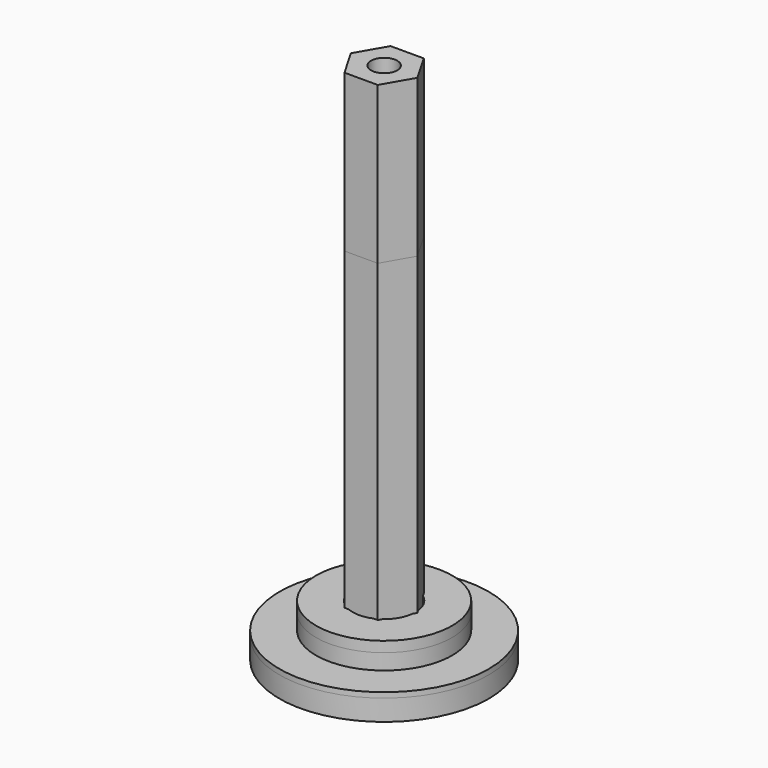
from build123d import *

# Parameters (mm, degrees)
F1_DEPTH  = 50
F2_D      = 2.5
F7_DEPTH  = 35
F8_D      = 3.3
F11_R     = 10
F11_R_2   = 2.75
F12_DEPTH = 2.5
F13_DEPTH = 2


with BuildPart() as f1:
    # F0 (on Top) → F1 (new body)
    with BuildSketch(Plane.XY):
        Polygon((-1.5877132403, -2.75), (1.5877132403, -2.75), (3.1754264805, 0), (1.5877132403, 2.75), (-1.5877132403, 2.75), (-3.1754264805, 0), align=None)
    extrude(amount=F1_DEPTH)

    # F2 (through all)
    with Locations(Plane(origin=(0, 0, 0), x_dir=(1, 0, 0), z_dir=(0, 0, -1))):
        with Locations((0, 0)):
            Hole(F2_D / 2)


with BuildPart() as f4:
    # F3 (on Front) → F4 (revolve)
    with BuildSketch(Plane.XZ):
        Polygon((-3, 5), (-6.5, 5), (-6.5, 1.1), (-7.5, 1.1), (-7.5, 0), (-3, 0), align=None)
    revolve(axis=Axis((0, 0, 3.7545025419), (0, 0, 1)))


with BuildPart() as f6:
    # F5 (on Front) → F6 (revolve)
    with BuildSketch(Plane.XZ):
        Polygon((-7.5, 0), (-2.5, 0), (-2.5, 4), (-6.5, 4), (-6.5, 1), (-7.5, 1), align=None)
    revolve(axis=Axis((0, 0, 3.5518463739), (0, 0, 1)))


with BuildPart() as f7:
    # F0 (on Top) → F7 (new body)
    with BuildSketch(Plane.XY):
        Polygon((-1.5877132403, -2.75), (1.5877132403, -2.75), (3.1754264805, 0), (1.5877132403, 2.75), (-1.5877132403, 2.75), (-3.1754264805, 0), align=None)
    extrude(amount=F7_DEPTH)

    # F8 (through all)
    with Locations(Plane(origin=(0, 0, 0), x_dir=(1, 0, 0), z_dir=(0, 0, -1))):
        with Locations((0, 0)):
            Hole(F8_D / 2)


with BuildPart() as f10:
    # F9 (on Front) → F10 (revolve)
    with BuildSketch(Plane.XZ):
        Polygon((-4.05, 0), (-1.5, 0), (-1.5, 3), (-3.5, 3), (-3.5, 1), (-4.05, 1), align=None)
    revolve(axis=Axis((0, 0, 2.1486662607), (0, 0, 1)))


with BuildPart() as f12:
    # F11 (on Top) → F12 (new body)
    with BuildSketch(Plane.XY):
        Circle(F11_R)
        Circle(F11_R_2, mode=Mode.SUBTRACT)
    extrude(amount=F12_DEPTH)


with BuildPart() as f13:
    # F11 (on Top) → F13 (new body)
    with BuildSketch(Plane.XY):
        Circle(F11_R)
        Circle(F11_R_2, mode=Mode.SUBTRACT)
    extrude(amount=F13_DEPTH)


solid = Compound([f1.part, f4.part, f6.part, f7.part, f10.part, f12.part, f13.part])
